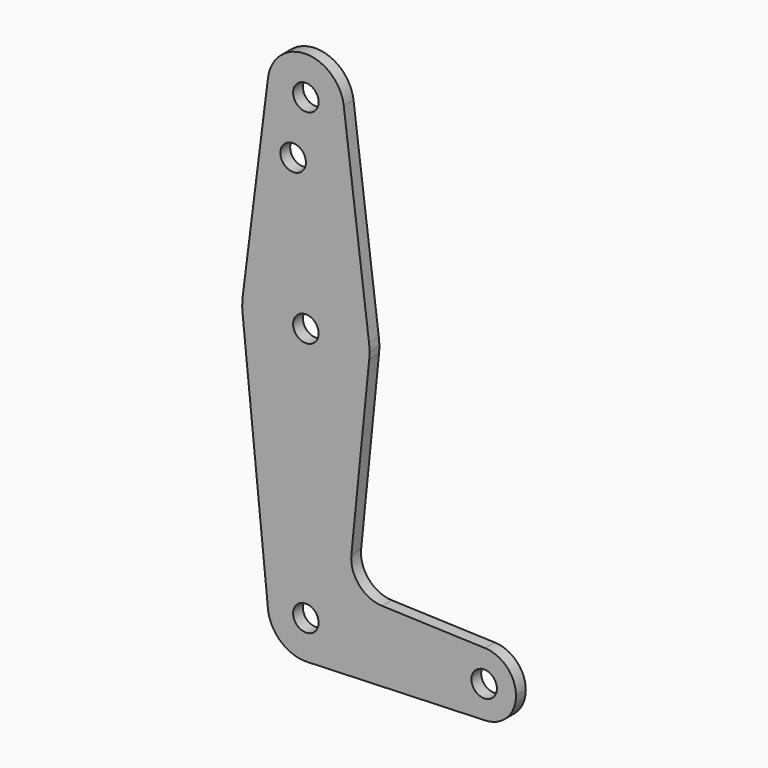
from build123d import *

# Parameters (mm, degrees)
F0_R     = 3.175
F1_DEPTH = 3.048


with BuildPart() as f1:
    # F0 (on Front) → F1 (new body)
    with BuildSketch(Plane.XZ):
        with BuildLine():
            ThreePointArc((-42.820366, 63.916797), (-33.966556, 53.219867), (-23.845073, 62.726172))
            ThreePointArc((-23.845073, 62.726172), (-23.863768, 63.322655), (-23.91978, 63.916797))
            ThreePointArc((-23.91978, 63.916797), (-33.370073, 72.251172), (-42.820366, 63.916797))
        make_face()
        with Locations((-33.370073, 62.726172)):
            Circle(F0_R, mode=Mode.SUBTRACT)
        with BuildLine():
            ThreePointArc((-23.91978, 63.916797), (-23.863768, 63.322655), (-23.845073, 62.726172))
            ThreePointArc((-23.845073, 62.726172), (-33.966556, 53.219867), (-42.820366, 63.916797))
            Line((-42.820366, 63.916797), (-49.120561, 13.910547))
            ThreePointArc((-49.120561, 13.910547), (-33.370073, 27.801172), (-17.619585, 13.910546))
            Line((-17.619585, 13.910546), (-23.91978, 63.916797))
        make_face()
        with Locations((-36.545073, 48.451372)):
            Circle(F0_R, mode=Mode.SUBTRACT)
        with BuildLine():
            ThreePointArc((-17.495073, 11.926172), (-17.526232, 12.92031), (-17.619585, 13.910546))
            ThreePointArc((-17.619585, 13.910546), (-33.370073, 27.801172), (-49.120561, 13.910547))
            ThreePointArc((-49.120561, 13.910547), (-49.24385, 12.123237), (-49.16497, 10.333418))
            ThreePointArc((-49.16497, 10.333418), (-33.367433, -3.948828), (-17.574648, 10.338672))
            ThreePointArc((-17.574648, 10.338672), (-17.514979, 11.131426), (-17.495073, 11.926172))
        make_face()
        with Locations((-33.370073, 11.926172)):
            Circle(F0_R, mode=Mode.SUBTRACT)
        with BuildLine():
            ThreePointArc((-17.574648, 10.338672), (-33.367433, -3.948828), (-49.16497, 10.333418))
            Line((-49.16497, 10.333418), (-42.88955, -51.898155))
            ThreePointArc((-42.88955, -51.898155), (-33.53226, -42.050209), (-23.845073, -51.573828))
            ThreePointArc((-23.845073, -51.573828), (-26.515665, -58.187655), (-33.029895, -61.092751))
            Line((-33.029895, -61.092751), (11.363409, -59.506264))
            ThreePointArc((11.363409, -59.506264), (3.142427, -51.573828), (11.363409, -43.641392))
            Line((11.363409, -43.641392), (-14.402473, -42.720594))
            ThreePointArc((-14.402473, -42.720594), (-20.108873, -40.002469), (-22.028887, -33.980446))
            Line((-22.028887, -33.980446), (-17.574648, 10.338672))
        make_face()
        with BuildLine():
            Line((-42.76265, -53.156588), (-42.88955, -51.898155))
            ThreePointArc((-42.88955, -51.898155), (-42.847011, -52.52948), (-42.76265, -53.156588))
        make_face()
        with BuildLine():
            ThreePointArc((-23.845073, -51.573828), (-33.53226, -42.050209), (-42.88955, -51.898155))
            Line((-42.88955, -51.898155), (-42.76265, -53.156588))
            ThreePointArc((-42.76265, -53.156588), (-39.389388, -58.955797), (-33.029895, -61.092751))
            ThreePointArc((-33.029895, -61.092751), (-26.515665, -58.187655), (-23.845073, -51.573828))
        make_face()
        with Locations((-33.370073, -51.573828)):
            Circle(F0_R, mode=Mode.SUBTRACT)
        with BuildLine():
            ThreePointArc((19.017427, -51.573828), (16.791934, -46.062305), (11.363409, -43.641392))
            ThreePointArc((11.363409, -43.641392), (3.142427, -51.573828), (11.363409, -59.506264))
            ThreePointArc((11.363409, -59.506264), (16.791934, -57.085351), (19.017427, -51.573828))
        make_face()
        with Locations((11.079927, -51.573828)):
            Circle(F0_R, mode=Mode.SUBTRACT)
    extrude(amount=F1_DEPTH)


solid = f1.part
